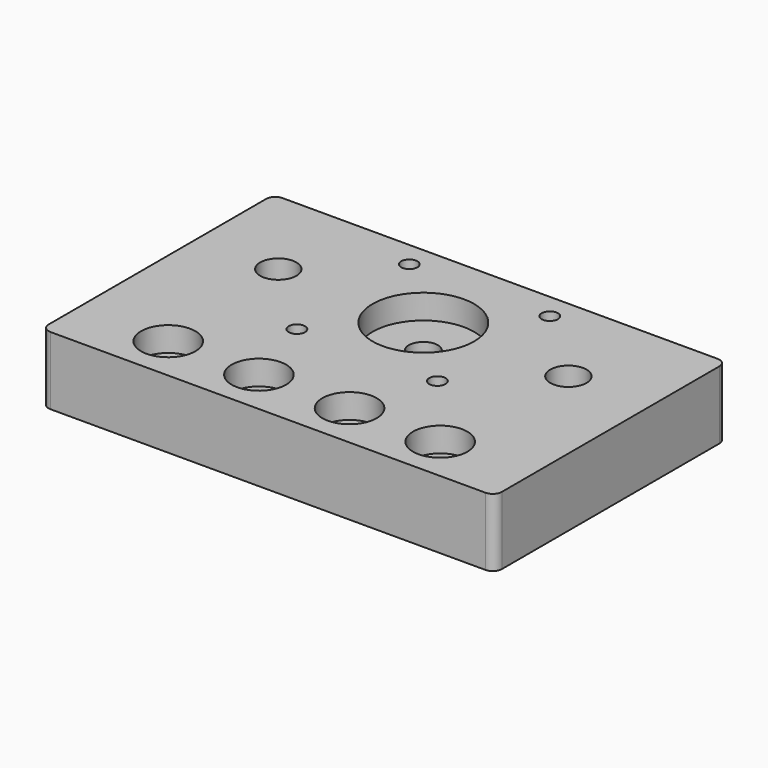
from build123d import *

# Parameters (mm, degrees)
SKETCH_W        = 100
SKETCH_H        = 64
SKETCH_R        = 3.2
SKETCH_R_2      = 1.8
SKETCH_R_3      = 4
PAD_DEPTH       = 15
SKETCH001_R     = 11.2
SKETCH001_R_2   = 6
POCKET_DEPTH    = 5.4
SKETCH002_R     = 3.2
POCKET001_DEPTH = 3.2
SKETCH003_R     = 6
POCKET002_DEPTH = 5.4
SKETCH004_R     = 3.2
POCKET003_DEPTH = 15
FILLET_R        = 2


with BuildPart() as part:
    # Sketch → Pad (new body)
    with BuildSketch(Plane.XY):
        with Locations((50, 32)):
            Rectangle(SKETCH_W, SKETCH_H)
        with Locations((50, 42.85)):
            Circle(SKETCH_R, mode=Mode.SUBTRACT)
        with Locations((65.5, 58.35)):
            Circle(SKETCH_R_2, mode=Mode.SUBTRACT)
        with Locations((65.5, 27.35)):
            Circle(SKETCH_R_2, mode=Mode.SUBTRACT)
        with Locations((34.5, 27.35)):
            Circle(SKETCH_R_2, mode=Mode.SUBTRACT)
        with Locations((34.5, 58.35)):
            Circle(SKETCH_R_2, mode=Mode.SUBTRACT)
        with Locations((20, 10)):
            Circle(SKETCH_R, mode=Mode.SUBTRACT)
        with Locations((80, 10)):
            Circle(SKETCH_R, mode=Mode.SUBTRACT)
        with Locations((82, 42.85)):
            Circle(SKETCH_R_3, mode=Mode.SUBTRACT)
        with Locations((18, 42.85)):
            Circle(SKETCH_R_3, mode=Mode.SUBTRACT)
    extrude(amount=PAD_DEPTH)

    # Sketch001 (on Face15 of Pad) → Pocket (cut)
    with BuildSketch(Plane.XY.offset(15)):
        with Locations((50, 42.85)):
            Circle(SKETCH001_R)
        with Locations((20, 10)):
            Circle(SKETCH001_R_2)
        with Locations((80, 10)):
            Circle(SKETCH001_R_2)
    extrude(amount=-POCKET_DEPTH, mode=Mode.SUBTRACT)

    # Sketch002 (on Face4 of Pocket) → Pocket001 (cut)
    with BuildSketch(Plane(origin=(0, 0, 0), x_dir=(1, 0, 0), z_dir=(0, 0, -1))):
        with Locations((34.5, -27.35)):
            Circle(SKETCH002_R)
        with Locations((65.5, -27.35)):
            Circle(SKETCH002_R)
        with Locations((34.5, -58.35)):
            Circle(SKETCH002_R)
        with Locations((65.5, -58.35)):
            Circle(SKETCH002_R)
    extrude(amount=-POCKET001_DEPTH, mode=Mode.SUBTRACT)

    # Sketch003 (on Face5 of Pocket001) → Pocket002 (cut)
    with BuildSketch(Plane.XY.offset(15)):
        with Locations((40, 10)):
            Circle(SKETCH003_R)
        with Locations((60, 10)):
            Circle(SKETCH003_R)
    extrude(amount=-POCKET002_DEPTH, mode=Mode.SUBTRACT)

    # Sketch004 (on Face4 of Pocket002) → Pocket003 (cut)
    with BuildSketch(Plane(origin=(0, 0, 0), x_dir=(1, 0, 0), z_dir=(0, 0, -1))):
        with Locations((40, -10)):
            Circle(SKETCH004_R)
        with Locations((60, -10)):
            Circle(SKETCH004_R)
    extrude(amount=-POCKET003_DEPTH, mode=Mode.SUBTRACT)

    # Fillet
    fillet_edges = [part.edges().sort_by_distance(p)[0] for p in [
        (0, 64, 7.5),
        (100, 64, 7.5),
        (100, 0, 7.5),
        (0, 0, 7.5),
    ]]
    fillet(fillet_edges, radius=FILLET_R)


solid = part.part
